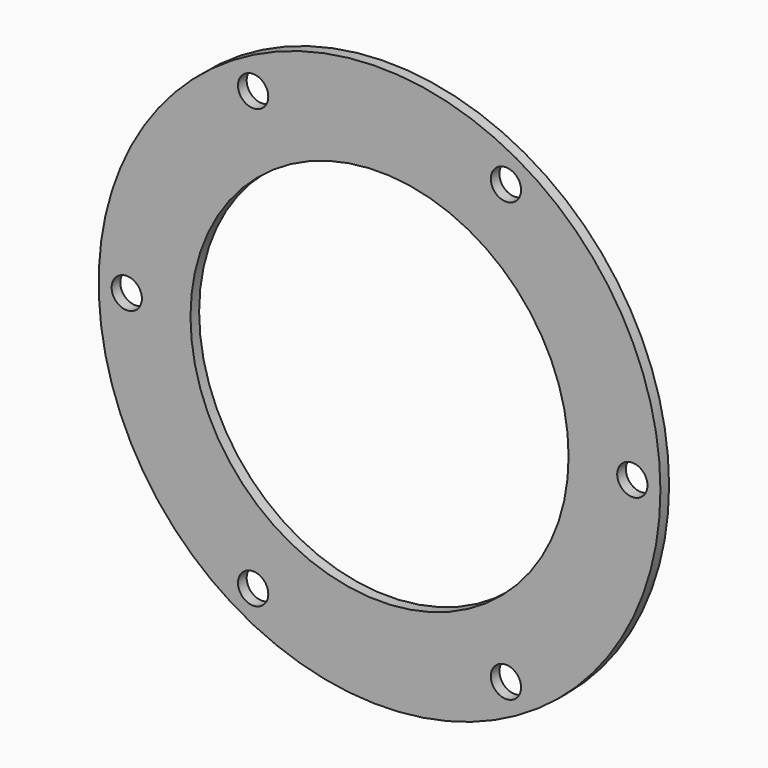
from build123d import *

# Parameters (mm, degrees)
F0_R     = 130
F0_R_2   = 7
F0_R_3   = 87.5
F1_DEPTH = 5


with BuildPart() as f1:
    # F0 (on Front) → F1 (new body)
    with BuildSketch(Plane.XZ):
        Circle(F0_R)
        with Locations((-58.5, -101.324972)):
            Circle(F0_R_2, mode=Mode.SUBTRACT)
        with Locations((58.5, -101.324972)):
            Circle(F0_R_2, mode=Mode.SUBTRACT)
        with Locations((-117, 0)):
            Circle(F0_R_2, mode=Mode.SUBTRACT)
        with Locations((-58.5, 101.324972)):
            Circle(F0_R_2, mode=Mode.SUBTRACT)
        Circle(F0_R_3, mode=Mode.SUBTRACT)
        with Locations((117, 0)):
            Circle(F0_R_2, mode=Mode.SUBTRACT)
        with Locations((58.5, 101.324972)):
            Circle(F0_R_2, mode=Mode.SUBTRACT)
    extrude(amount=F1_DEPTH)


solid = f1.part
